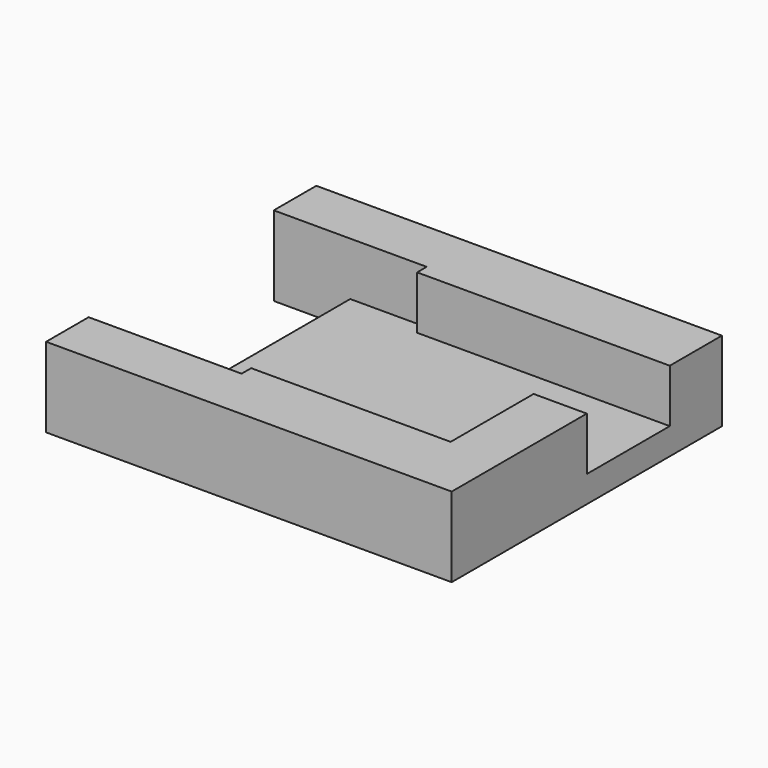
from build123d import *

# Parameters (mm, degrees)
F0_W      = 19.05
F0_H      = 19.812
F1_DEPTH  = 2.54
F2_DEPTH  = 2.54
F0_W_2    = 14.605
F0_H_2    = 1.143
F3_DEPTH  = 2.54
F4_W      = 38.735
F4_H      = 32.258
F5_DEPTH  = 7.62
F6_DEPTH  = 7.62
F7_W      = 7.3025
F7_H      = 22.098
F8_DEPTH  = 2.54
F9_W      = 5.08
F9_H      = 9.906
F10_DEPTH = 5.08


with BuildPart() as f1:
    # F0 (on Top) → F1 (new body)
    with BuildSketch(Plane.XY):
        with Locations((9.525, 9.906)):
            Rectangle(F0_W, F0_H)
    extrude(amount=F1_DEPTH)

    # F0 (on Top) → F2 (join)
    with BuildSketch(Plane.XY):
        Polygon((-14.605, 0), (0, 0), (0, 19.812), (0, 20.955), (-14.605, 20.955), align=None)
    extrude(amount=F2_DEPTH)

    # F0 (on Top) → F3 (join)
    with BuildSketch(Plane.XY):
        with Locations((-7.3025, -0.5715)):
            Rectangle(F0_W_2, F0_H_2)
    extrude(amount=F3_DEPTH)

    # F4 (on Top) → F5 (join)
    with BuildSketch(Plane.XY):
        with Locations((4.7625, 9.906)):
            Rectangle(F4_W, F4_H)
    extrude(amount=-F5_DEPTH)

    # F3_face (on face) → F6 (cut)
    with BuildSketch(Plane(origin=(1.768302, 9.906, 2.54), x_dir=(1, 0, 0), z_dir=(0, 0, 1))):
        Polygon((-1.768302, -9.906), (17.281698, -9.906), (17.281698, 9.906), (-1.768302, 9.906), (-1.768302, 11.049), (-16.373302, 11.049), (-16.373302, -11.049), (-1.768302, -11.049), align=None)
    extrude(amount=-F6_DEPTH, mode=Mode.SUBTRACT)

    # F7 (on face) → F8 (cut)
    with BuildSketch(Plane.XY.offset(-5.08)):
        with Locations((-10.95375, 9.906)):
            Rectangle(F7_W, F7_H)
    extrude(amount=-F8_DEPTH, mode=Mode.SUBTRACT)

    # F9 (on face) → F10 (cut)
    with BuildSketch(Plane.XY):
        with Locations((21.59, 14.859)):
            Rectangle(F9_W, F9_H)
    extrude(amount=-F10_DEPTH, mode=Mode.SUBTRACT)


solid = f1.part
